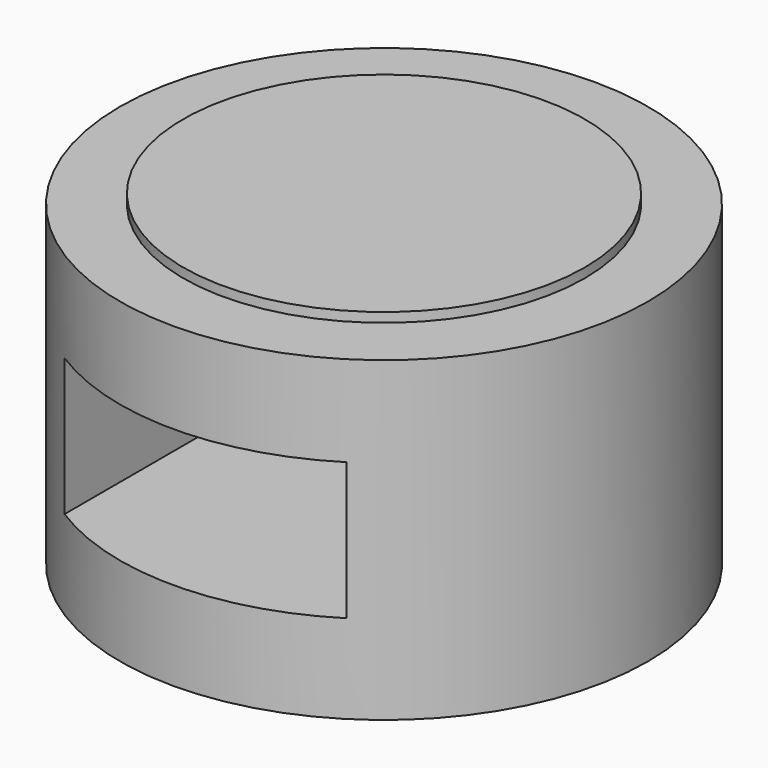
from build123d import *

# Parameters (mm, degrees)
F0_R     = 63.5
F1_DEPTH = 76.2
F3_R     = 48.310271
F4_DEPTH = 2.286
F5_W     = 67.779378
F5_H     = 33.0435
F6_DEPTH = 127


with BuildPart() as f1:
    # F0 (on Top) → F1 (new body)
    with BuildSketch(Plane.XY):
        Circle(F0_R)
    extrude(amount=F1_DEPTH)

    # F3 (on face) → F4 (join)
    with BuildSketch(Plane.XY.offset(76.2)):
        Circle(F3_R)
    extrude(amount=F4_DEPTH)

    # F5 (on Front) → F6 (cut)
    with BuildSketch(Plane.XZ):
        with Locations((0, 37.875455)):
            Rectangle(F5_W, F5_H)
    extrude(amount=F6_DEPTH, mode=Mode.SUBTRACT)


solid = f1.part
